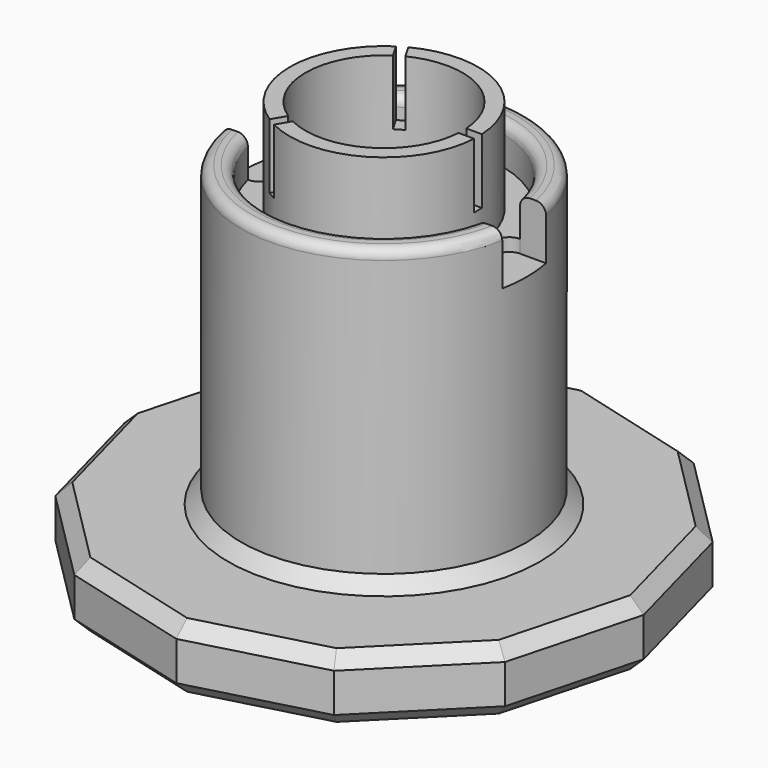
from build123d import *

# Parameters (mm, degrees)
SKETCH_R             = 14.5
SKETCH_R_2           = 12.1
PAD_DEPTH            = 14.6
SKETCH001_W          = 30.380329
SKETCH001_H          = 1.5
POCKET_DEPTH         = 97.067871
POLARPATTERN_COUNT   = 3
SKETCH003_R          = 22
PAD001_DEPTH         = 40
SKETCH004_R          = 22
SKETCH004_R_2        = 18.1
PAD002_DEPTH         = 6
PAD003_DEPTH         = 10
SKETCH005_R          = 11
POCKET001_DEPTH      = 50.001
POCKET001_DEPTH_BACK = 14.601
FILLET_R             = 1.5
POCKET002_DEPTH      = 16.601
CHAMFER_SIZE         = 2


with BuildPart() as part:
    # Sketch → Pad (new body)
    with BuildSketch(Plane.XY):
        Circle(SKETCH_R)
        Circle(SKETCH_R_2, mode=Mode.SUBTRACT)
    extrude(amount=PAD_DEPTH)

    # Sketch001 → Pocket (cut, through all)
    with BuildSketch(Plane.XY.offset(4.6)):
        with Locations((15.190164, 0)):
            Rectangle(SKETCH001_W, SKETCH001_H)
    pocket = extrude(amount=POCKET_DEPTH, mode=Mode.SUBTRACT)

    # PolarPattern: Pocket ×3 about axis
    polarpattern_axis = Axis((0, 0, 4.6), (0, 0, 1))
    for i in range(1, POLARPATTERN_COUNT):
        add(pocket.rotate(polarpattern_axis, i * 360 / POLARPATTERN_COUNT), mode=Mode.SUBTRACT)

    # Sketch003 → Pad001 (join)
    with BuildSketch(Plane.XY):
        Circle(SKETCH003_R)
    extrude(amount=-PAD001_DEPTH)

    # Sketch004 → Pad002 (join)
    with BuildSketch(Plane.XY):
        Circle(SKETCH004_R)
        Circle(SKETCH004_R_2, mode=Mode.SUBTRACT)
    extrude(amount=PAD002_DEPTH)

    # Sketch002 → Pad003 (join)
    with BuildSketch(Plane.XY.offset(-40)):
        Polygon((20, -34.641016), (34.641016, -20), (40, 0), (34.641016, 20), (20, 34.641016), (0, 40), (-20, 34.641016), (-34.641016, 20), (-40, 0), (-34.641016, -20), (-20, -34.641016), (0, -40), align=None)
    extrude(amount=-PAD003_DEPTH)

    # Sketch005 → Pocket001 (cut, two sides)
    with BuildSketch(Plane.XY) as pocket001_sk:
        Circle(SKETCH005_R)
    extrude(amount=-POCKET001_DEPTH, mode=Mode.SUBTRACT)
    extrude(pocket001_sk.sketch, amount=POCKET001_DEPTH_BACK, mode=Mode.SUBTRACT)

    # Fillet
    fillet_edges = [part.edges().sort_by_distance(p)[0] for p in [
        (-22, 0, 6),
        (-18.1, 0, 6),
    ]]
    fillet(fillet_edges, radius=FILLET_R)

    # Sketch006 → Pocket002 (cut, through all)
    with BuildSketch(Plane.XY.offset(-2)):
        with BuildLine():
            ThreePointArc((17.565, 4.21), (16.150786, 3.624214), (15.565, 2.21))
            Line((15.565, -2.21), (15.565, 2.21))
            ThreePointArc((15.565, -2.21), (16.150786, -3.624214), (17.565, -4.21))
            Line((34.147769, -4.21), (17.565, -4.21))
            ThreePointArc((34.147769, -4.21), (35.561983, -3.624214), (36.147769, -2.21))
            Line((36.147769, 2.21), (36.147769, -2.21))
            ThreePointArc((36.147769, 2.21), (35.561983, 3.624214), (34.147769, 4.21))
            Line((17.565, 4.21), (34.147769, 4.21))
        make_face()
        with BuildLine():
            ThreePointArc((-49.927467, 4.21), (-51.34168, 3.624214), (-51.927467, 2.21))
            Line((-51.927467, -2.21), (-51.927467, 2.21))
            ThreePointArc((-51.927467, -2.21), (-51.34168, -3.624214), (-49.927467, -4.21))
            Line((-17.565, -4.21), (-49.927467, -4.21))
            ThreePointArc((-17.565, -4.21), (-16.150786, -3.624214), (-15.565, -2.21))
            Line((-15.565, 2.21), (-15.565, -2.21))
            ThreePointArc((-15.565, 2.21), (-16.150786, 3.624214), (-17.565, 4.21))
            Line((-49.927467, 4.21), (-17.565, 4.21))
        make_face()
    extrude(amount=POCKET002_DEPTH, mode=Mode.SUBTRACT)

    # Chamfer
    chamfer_edges = [part.edges().sort_by_distance(p)[0] for p in [
        (27.320508, -27.320508, -50),
        (10, -37.320508, -50),
        (37.320508, -10, -50),
        (-10, -37.320508, -50),
        (37.320508, 10, -50),
        (-27.320508, -27.320508, -50),
        (27.320508, 27.320508, -50),
        (-37.320508, -10, -50),
        (10, 37.320508, -50),
        (-37.320508, 10, -50),
        (-10, 37.320508, -50),
        (-27.320508, 27.320508, -50),
        (-11, 0, -50),
        (27.320508, -27.320508, -40),
        (10, -37.320508, -40),
        (37.320508, -10, -40),
        (-10, -37.320508, -40),
        (37.320508, 10, -40),
        (-27.320508, -27.320508, -40),
        (27.320508, 27.320508, -40),
        (-37.320508, -10, -40),
        (10, 37.320508, -40),
        (-37.320508, 10, -40),
        (-10, 37.320508, -40),
        (-27.320508, 27.320508, -40),
        (-22, 0, -40),
    ]]
    chamfer(chamfer_edges, length=CHAMFER_SIZE)


solid = part.part
